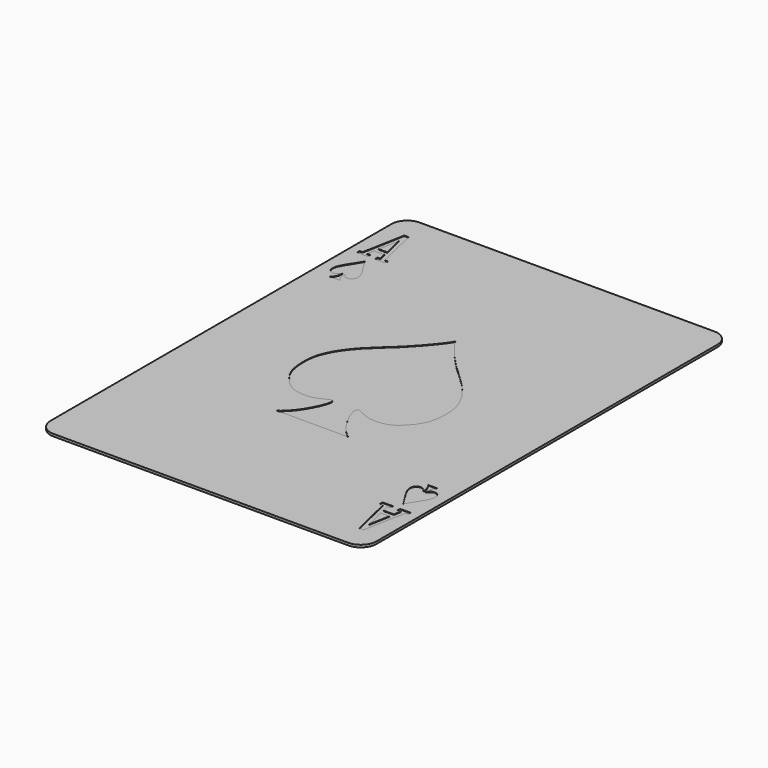
from build123d import *

# Parameters (mm, degrees)
F0_W     = 62
F0_H     = 87
F1_DEPTH = 0.45
F2_R     = 3
F4_DEPTH = 0.1


with BuildPart() as f1:
    # F0 (on Top) → F1 (new body)
    with BuildSketch(Plane.XY):
        with Locations((31, 43.5)):
            Rectangle(F0_W, F0_H)
    extrude(amount=F1_DEPTH)

    # F2
    f2_edges = [f1.edges().sort_by_distance(p)[0] for p in [
        (62, 87, 0.225),
        (0, 87, 0.225),
        (62, 0, 0.225),
        (0, 0, 0.225),
    ]]
    fillet(f2_edges, radius=F2_R)

    # F3 (on face) → F4 (cut)
    with BuildSketch(Plane.XY.offset(0.45)):
        Polygon((4.6103941277, 82.3198705912), (3.8031477015, 82.3198705912), (2.3018923596, 74.2900818586), (1.7328544054, 74.2900818586), (1.7328544054, 73.6795067787), (3.8031477015, 73.6795067787), (3.8031477015, 74.2900818586), (3.1593375381, 74.2900818586), (3.4117235232, 75.6400228596), (5.3396950772, 75.6400228596), (5.6632163674, 74.2900818586), (5.1254248247, 74.2900818586), (5.1254248247, 73.6795067787), (7.1211797185, 73.6795067787), (7.1211797185, 74.2900818586), (6.5347801634, 74.2900818586), align=None)
        Polygon((4.2673139068, 80.4538051702), (5.2073942497, 76.5311792493), (4.2673139068, 76.5311792493), (3.5339368137, 76.5311792493), align=None, mode=Mode.SUBTRACT)
        with BuildLine():
            add(Edge.make_bspline(
                [(4.4397576712, 72.1507370472), (4.8369145501, 71.5068902989), (5.5292855369, 70.3844602664), (6.1555231929, 69.4098889942), (6.6107708272, 68.5842755704), (6.789836569, 68.0432823133), (6.8610545111, 67.4412662849), (6.8098761533, 67.0597038749), (6.6648616449, 66.7676120775), (6.4288462308, 66.5406602614), (6.1311650078, 66.3535576479), (5.8326713897, 66.3143937609), (5.4900916417, 66.3175318752), (5.1270691768, 66.5477607577), (4.8566693677, 66.8658952105), (4.7043084678, 66.985193797), (4.6362685971, 67.0384690166)],
                knots=[0, 0, 0, 0, 0.1413861968, 0.2464811911, 0.3388139078, 0.4126339875, 0.4874177284, 0.5474256046, 0.6016438112, 0.6571822255, 0.7142256067, 0.767096188, 0.8229434379, 0.8861232936, 0.9491460317, 1, 1, 1, 1], degree=3))
            add(Edge.make_bspline(
                [(4.4397576712, 72.1507370472), (4.0426007923, 71.5068902989), (3.3502298055, 70.3844602664), (2.7239921495, 69.4098889942), (2.2687445152, 68.5842755704), (2.0896787734, 68.0432823133), (2.0184608313, 67.4412662849), (2.0696391891, 67.0597038749), (2.2146536975, 66.7676120775), (2.4506691116, 66.5406602614), (2.7483503346, 66.3535576479), (3.0468439527, 66.3143937609), (3.3894237007, 66.3175318752), (3.7524461656, 66.5477607577), (4.0228459747, 66.8658952105), (4.1752068746, 66.985193797), (4.2432467453, 67.0384690166)],
                knots=[0, 0, 0, 0, 0.1413861968, 0.2464811911, 0.3388139078, 0.4126339875, 0.4874177284, 0.5474256046, 0.6016438112, 0.6571822255, 0.7142256067, 0.767096188, 0.8229434379, 0.8861232936, 0.9491460317, 1, 1, 1, 1], degree=3))
            add(Edge.make_bspline(
                [(4.2432467453, 67.0384690166), (4.2469012325, 66.9051732952), (4.2539335567, 66.6486725412), (4.2012975101, 66.3274602971), (4.0424245957, 65.8783252744), (3.8709793065, 65.5478520579), (3.6192358104, 65.2556407798), (3.4787429031, 65.0925636292)],
                knots=[0, 0, 0, 0, 0.1902938575, 0.3661821807, 0.5742482312, 0.762396627, 1, 1, 1, 1], degree=3))
            Line((3.4787429031, 65.0925636292), (4.4397576712, 65.0925636292))
            Line((4.4397576712, 65.0925636292), (5.4007724393, 65.0925636292))
            add(Edge.make_bspline(
                [(4.6362685971, 67.0384690166), (4.6326141099, 66.9051732952), (4.6255817857, 66.6486725412), (4.6782178323, 66.3274602971), (4.8370907467, 65.8783252744), (5.0085360359, 65.5478520579), (5.260279532, 65.2556407798), (5.4007724393, 65.0925636292)],
                knots=[0, 0, 0, 0, 0.1902938575, 0.3661821807, 0.5742482312, 0.762396627, 1, 1, 1, 1], degree=3))
        make_face()
        with BuildLine():
            Line((24.2479877025, 26.5474453047), (31, 26.5474453047))
            Line((31, 26.5474453047), (37.7520122975, 26.5474453047))
            add(Edge.make_bspline(
                [(37.7520122975, 26.5474453047), (37.6285922228, 26.6330701862), (37.3239473836, 26.8444229855), (36.5023203914, 27.624925569), (35.7882272753, 28.4012554118), (34.5641456845, 30.1774827346), (33.6593789157, 32.0825849842), (33.3233761896, 33.0622333593), (33.2013599801, 33.7055421015), (33.2568475405, 34.0527966037), (33.4864333596, 34.3041497616), (33.8035109219, 34.2875459005), (34.393194582, 33.9368602847), (35.5320147451, 33.455110111), (36.8230901421, 32.9732274531), (38.7629791298, 33.0415858862), (40.7756043574, 33.5462706003), (42.7540793615, 35.5268071748), (43.9871696191, 37.4063846685), (44.3828189525, 38.979359688), (44.6130448781, 40.772338461), (44.5174096792, 42.9397415092), (44.1901372791, 44.4792519057), (43.2021638277, 46.6761153271), (42.3711591631, 47.8592737778), (41.1980934518, 49.4117717221), (39.7775727263, 50.8717205708), (37.900130737, 52.6127775248), (36.3211736387, 54.0160814099), (34.4192252668, 56.0084642945), (32.9444463756, 57.7920718618), (31.8320484739, 59.1215940483), (31.2727060043, 60.0163289569), (31, 60.4525546953)],
                knots=[0, 0, 0, 0, 0.0187392883, 0.0462552587, 0.0737393157, 0.1125276879, 0.1513043263, 0.177995482, 0.1986777803, 0.2139429813, 0.2283008004, 0.242019082, 0.2634389677, 0.2928162763, 0.3238339572, 0.3599975019, 0.3977159243, 0.4414772137, 0.4809470013, 0.5139111701, 0.5494313129, 0.5878403025, 0.6215467466, 0.6617535814, 0.6939579857, 0.7299795678, 0.7681153417, 0.8099616704, 0.8486825995, 0.8923578767, 0.9327331618, 0.9672042234, 1, 1, 1, 1], degree=3))
            add(Edge.make_bspline(
                [(24.2479877025, 26.5474453047), (24.3714077772, 26.6330701862), (24.6760526164, 26.8444229855), (25.4976796086, 27.624925569), (26.2117727247, 28.4012554118), (27.4358543155, 30.1774827346), (28.3406210843, 32.0825849842), (28.6766238104, 33.0622333593), (28.7986400199, 33.7055421015), (28.7431524595, 34.0527966037), (28.5135666404, 34.3041497616), (28.1964890781, 34.2875459005), (27.606805418, 33.9368602847), (26.4679852549, 33.455110111), (25.1769098579, 32.9732274531), (23.2370208702, 33.0415858862), (21.2243956426, 33.5462706003), (19.2459206385, 35.5268071748), (18.0128303809, 37.4063846685), (17.6171810475, 38.979359688), (17.3869551219, 40.772338461), (17.4825903208, 42.9397415092), (17.8098627209, 44.4792519057), (18.7978361723, 46.6761153271), (19.6288408369, 47.8592737778), (20.8019065482, 49.4117717221), (22.2224272737, 50.8717205708), (24.099869263, 52.6127775248), (25.6788263613, 54.0160814099), (27.5807747332, 56.0084642945), (29.0555536244, 57.7920718618), (30.1679515261, 59.1215940483), (30.7272939957, 60.0163289569), (31, 60.4525546953)],
                knots=[0, 0, 0, 0, 0.0187392883, 0.0462552587, 0.0737393157, 0.1125276879, 0.1513043263, 0.177995482, 0.1986777803, 0.2139429813, 0.2283008004, 0.242019082, 0.2634389677, 0.2928162763, 0.3238339572, 0.3599975019, 0.3977159243, 0.4414772137, 0.4809470013, 0.5139111701, 0.5494313129, 0.5878403025, 0.6215467466, 0.6617535814, 0.6939579857, 0.7299795678, 0.7681153417, 0.8099616704, 0.8486825995, 0.8923578767, 0.9327331618, 0.9672042234, 1, 1, 1, 1], degree=3))
        make_face()
        Polygon((60.2671455946, 12.7099181414), (60.2671455946, 13.3204932213), (58.1968522985, 13.3204932213), (58.1968522985, 12.7099181414), (58.8406624619, 12.7099181414), (58.5882764768, 11.3599771404), (56.6603049228, 11.3599771404), (56.3367836326, 12.7099181414), (56.8745751753, 12.7099181414), (56.8745751753, 13.3204932213), (54.8788202815, 13.3204932213), (54.8788202815, 12.7099181414), (55.4652198366, 12.7099181414), (57.3896058723, 4.6801294088), (58.1968522985, 4.6801294088), (59.6981076404, 12.7099181414), align=None)
        Polygon((57.7326860932, 6.5461948298), (56.7926057503, 10.4688207507), (57.7326860932, 10.4688207507), (58.4660631863, 10.4688207507), align=None, mode=Mode.SUBTRACT)
        with BuildLine():
            Line((58.5212570969, 21.9074363708), (57.5602423288, 21.9074363708))
            Line((57.5602423288, 21.9074363708), (56.5992275607, 21.9074363708))
            add(Edge.make_bspline(
                [(57.3637314029, 19.9615309834), (57.3673858901, 20.0948267048), (57.3744182143, 20.3513274588), (57.3217821677, 20.6725397029), (57.1629092533, 21.1216747256), (56.9914639641, 21.4521479421), (56.739720468, 21.7443592202), (56.5992275607, 21.9074363708)],
                knots=[0, 0, 0, 0, 0.1902938575, 0.3661821807, 0.5742482312, 0.762396627, 1, 1, 1, 1], degree=3))
            add(Edge.make_bspline(
                [(57.5602423288, 14.8492629528), (57.1630854499, 15.4931097011), (56.4707144631, 16.6155397336), (55.8444768071, 17.5901110058), (55.3892291728, 18.4157244296), (55.210163431, 18.9567176867), (55.1389454889, 19.5587337151), (55.1901238467, 19.9402961251), (55.3351383551, 20.2323879225), (55.5711537692, 20.4593397386), (55.8688349922, 20.6464423521), (56.1673286103, 20.6856062391), (56.5099083583, 20.6824681248), (56.8729308232, 20.4522392423), (57.1433306323, 20.1341047895), (57.2956915322, 20.014806203), (57.3637314029, 19.9615309834)],
                knots=[0, 0, 0, 0, 0.1413861968, 0.2464811911, 0.3388139078, 0.4126339875, 0.4874177284, 0.5474256046, 0.6016438112, 0.6571822255, 0.7142256067, 0.767096188, 0.8229434379, 0.8861232936, 0.9491460317, 1, 1, 1, 1], degree=3))
            add(Edge.make_bspline(
                [(57.5602423288, 14.8492629528), (57.9573992077, 15.4931097011), (58.6497701945, 16.6155397336), (59.2760078505, 17.5901110058), (59.7312554848, 18.4157244296), (59.9103212266, 18.9567176867), (59.9815391687, 19.5587337151), (59.9303608109, 19.9402961251), (59.7853463025, 20.2323879225), (59.5493308884, 20.4593397386), (59.2516496654, 20.6464423521), (58.9531560473, 20.6856062391), (58.6105762993, 20.6824681248), (58.2475538344, 20.4522392423), (57.9771540253, 20.1341047895), (57.8247931254, 20.014806203), (57.7567532547, 19.9615309834)],
                knots=[0, 0, 0, 0, 0.1413861968, 0.2464811911, 0.3388139078, 0.4126339875, 0.4874177284, 0.5474256046, 0.6016438112, 0.6571822255, 0.7142256067, 0.767096188, 0.8229434379, 0.8861232936, 0.9491460317, 1, 1, 1, 1], degree=3))
            add(Edge.make_bspline(
                [(57.7567532547, 19.9615309834), (57.7530987675, 20.0948267048), (57.7460664433, 20.3513274588), (57.7987024899, 20.6725397029), (57.9575754043, 21.1216747256), (58.1290206935, 21.4521479421), (58.3807641896, 21.7443592202), (58.5212570969, 21.9074363708)],
                knots=[0, 0, 0, 0, 0.1902938575, 0.3661821807, 0.5742482312, 0.762396627, 1, 1, 1, 1], degree=3))
        make_face()
    extrude(amount=-F4_DEPTH, mode=Mode.SUBTRACT)


solid = f1.part
